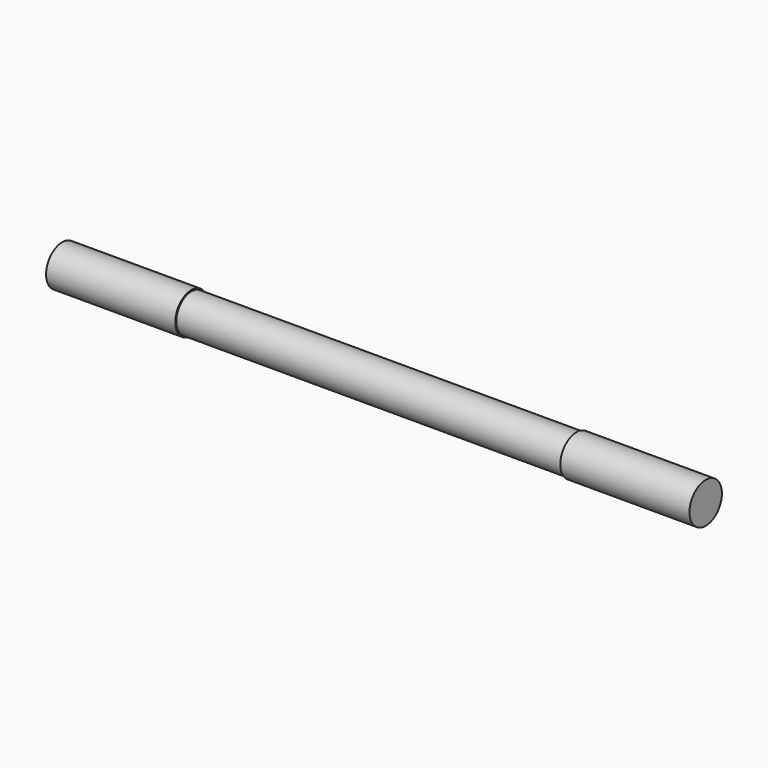
from build123d import *

# Parameters (mm, degrees)
F0_W = 76
F0_H = 3.75


with BuildPart() as f1:
    # F0 (on Top) → F1 (revolve)
    with BuildSketch(Plane.XY):
        Polygon((-63.5, 0), (-38, 0), (-38, 3.75), (-38, 4), (-63.5, 4), align=None)
        with Locations((0, 1.875)):
            Rectangle(F0_W, F0_H)
        Polygon((38, 0), (63.5, 0), (63.5, 4), (38, 4), (38, 3.75), align=None)
    revolve(axis=Axis((0, 0, 0), (1, 0, 0)))


solid = f1.part
